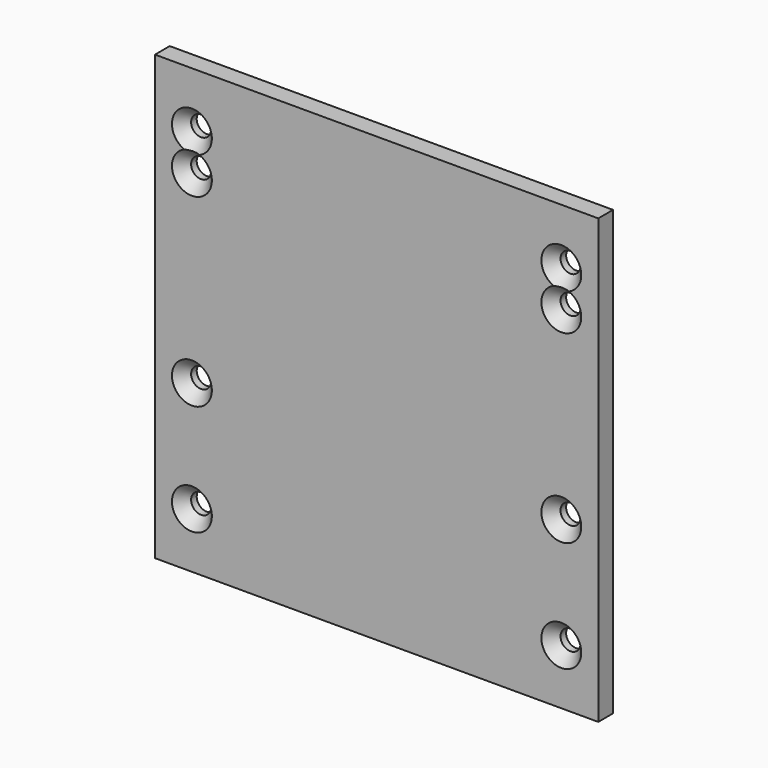
from build123d import *

# Parameters (mm, degrees)
F0_W           = 152.4
F0_H           = 152.4
F1_DEPTH       = 6.35
F3_D           = 6.858
F3_CSINK_D     = 13.716
F3_CSINK_ANGLE = 82


with BuildPart() as f1:
    # F0 (on Front) → F1 (new body)
    with BuildSketch(Plane.XZ):
        with Locations((6.360243, -5.05251)):
            Rectangle(F0_W, F0_H)
    extrude(amount=F1_DEPTH)

    # F3 (through all)
    with Locations(Plane.XZ.offset(6.35)):
        with Locations((-57.139757, 52.09749), (-57.139757, 39.39749), (69.860243, 52.09749), (69.860243, 39.39749), (69.860243, -24.10251), (69.860243, -62.20251), (-57.139757, -62.20251), (-57.139757, -24.10251)):
            CounterSinkHole(F3_D / 2, F3_CSINK_D / 2, counter_sink_angle=F3_CSINK_ANGLE)


solid = f1.part
